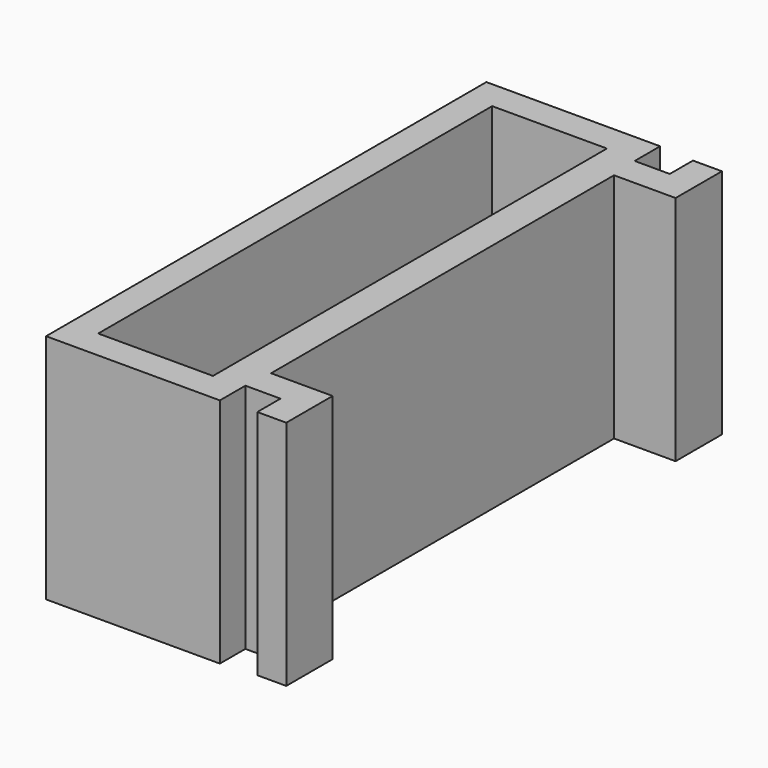
from build123d import *

# Parameters (mm, degrees)
F0_W     = 26.358528
F0_H     = 2.54
F0_W_2   = 28.575
F0_H_2   = 375.92
F1_DEPTH = 203.2


with BuildPart() as f1:
    # F0 (on Top) → F1 (new body)
    with BuildSketch(Plane.XY):
        Polygon((0, 482.6), (0, 0), (152.4, 0), (152.4, 25.4), (126.041472, 25.4), (25.4, 25.4), (25.4, 457.2), (126.041472, 457.2), (152.4, 457.2), (152.4, 482.6), align=None)
        with Locations((139.220736, 26.67)):
            Rectangle(F0_W, F0_H)
        Polygon((126.041472, 27.94), (152.4, 27.94), (183.191472, 27.94), (183.191472, 53.34), (154.616472, 53.34), (126.041472, 53.34), align=None)
        with Locations((139.220736, 455.93)):
            Rectangle(F0_W, F0_H)
        Polygon((183.191472, 53.34), (183.191472, 27.94), (183.191472, 2.54), (208.591472, 2.54), (208.591472, 53.34), align=None)
        Polygon((183.191472, 454.66), (152.4, 454.66), (126.041472, 454.66), (126.041472, 429.26), (154.616472, 429.26), (183.191472, 429.26), align=None)
        with Locations((140.328972, 241.3)):
            Rectangle(F0_W_2, F0_H_2)
        Polygon((183.191472, 480.06), (183.191472, 454.66), (183.191472, 429.26), (208.591472, 429.26), (208.591472, 480.06), align=None)
    extrude(amount=F1_DEPTH)


solid = f1.part
